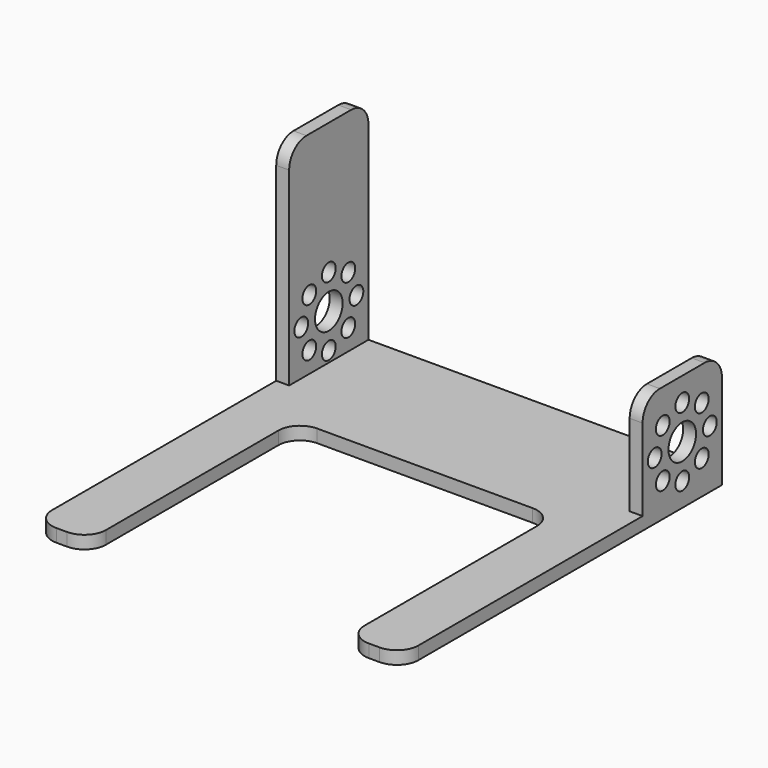
from build123d import *

# Parameters (mm, degrees)
F0_W     = 85
F0_H     = 23
F1_DEPTH = 3
F2_W     = 3
F2_H     = 23
F3_DEPTH = 24
F4_W     = 3
F4_H     = 23
F5_DEPTH = 25
F6_R     = 4
F6_R_2   = 2
F7_DEPTH = 250
F8_R     = 5


with BuildPart() as f1:
    # F0 (on Top) → F1 (new body)
    with BuildSketch(Plane.XY):
        with Locations((42.5, 11.5)):
            Rectangle(F0_W, F0_H)
        with BuildLine():
            Line((85, 0), (0, 0))
            Line((0, 0), (0, -10))
            Line((0, -10), (0, -65))
            ThreePointArc((0, -65), (1.464466, -68.535534), (5, -70))
            Line((5, -70), (7.5, -70))
            ThreePointArc((7.5, -70), (11.035534, -68.535534), (12.5, -65))
            Line((12.5, -65), (12.5, -15))
            ThreePointArc((12.5, -15), (13.964466, -11.464466), (17.5, -10))
            Line((17.5, -10), (67.5, -10))
            ThreePointArc((67.5, -10), (71.035534, -11.464466), (72.5, -15))
            Line((72.5, -15), (72.5, -65))
            ThreePointArc((72.5, -65), (73.964466, -68.535534), (77.5, -70))
            Line((77.5, -70), (80, -70))
            ThreePointArc((80, -70), (83.535534, -68.535534), (85, -65))
            Line((85, -65), (85, -10))
            Line((85, -10), (85, 0))
        make_face()
    extrude(amount=F1_DEPTH)

    # F2 (on face) → F3 (join)
    with BuildSketch(Plane.XY.offset(3)):
        with Locations((1.5, 11.5)):
            Rectangle(F2_W, F2_H)
        with Locations((83.5, 11.5)):
            Rectangle(F2_W, F2_H)
    extrude(amount=F3_DEPTH)

    # F4 (on face) → F5 (join)
    with BuildSketch(Plane.XY.offset(27)):
        with Locations((1.5, 11.5)):
            Rectangle(F4_W, F4_H)
    extrude(amount=F5_DEPTH)

    # F6 (on face) → F7 (cut)
    with BuildSketch(Plane.YZ.offset(85)):
        with Locations((11.5, 13.5)):
            Circle(F6_R)
        with Locations((5.843146, 19.156854)):
            Circle(F6_R_2)
        with Locations((11.5, 21.5)):
            Circle(F6_R_2)
        with Locations((17.156854, 19.156854)):
            Circle(F6_R_2)
        with Locations((19.5, 13.5)):
            Circle(F6_R_2)
        with Locations((17.156854, 7.843146)):
            Circle(F6_R_2)
        with Locations((11.5, 5.5)):
            Circle(F6_R_2)
        with Locations((5.843146, 7.843146)):
            Circle(F6_R_2)
        with Locations((3.5, 13.5)):
            Circle(F6_R_2)
    extrude(amount=-F7_DEPTH, mode=Mode.SUBTRACT)

    # F8
    f8_edges = [f1.edges().sort_by_distance(p)[0] for p in [
        (1.5, 23, 52),
        (1.5, 0, 52),
        (83.5, 23, 27),
        (83.5, 0, 27),
    ]]
    fillet(f8_edges, radius=F8_R)


solid = f1.part
